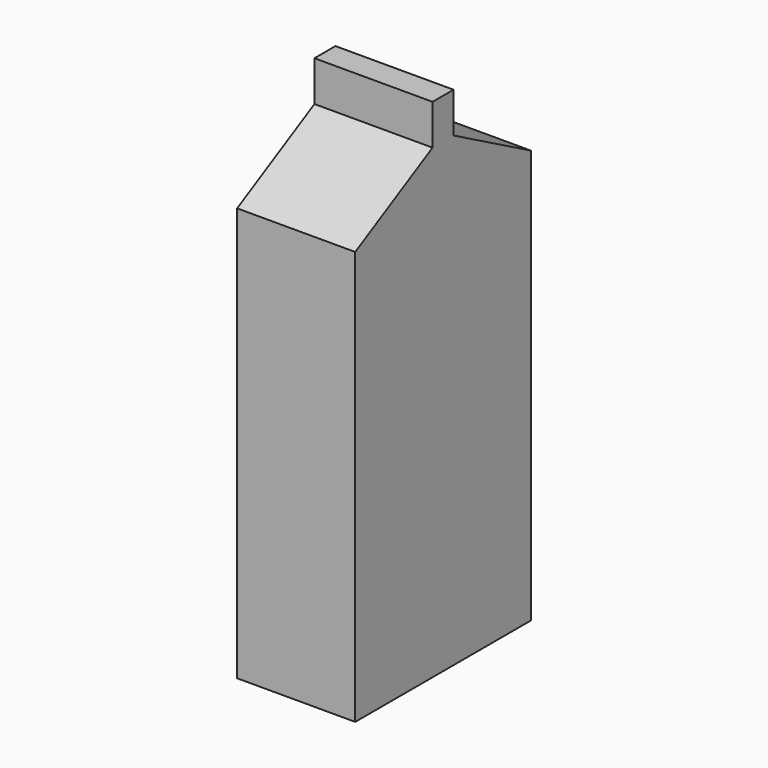
from build123d import *

# Parameters (mm, degrees)
F1_DEPTH = 25.4


with BuildPart() as f1:
    # F0 (on Right) → F1 (new body)
    with BuildSketch(Plane.YZ):
        Polygon((-23.609508, 44.494845), (-23.609508, -44.494845), (23.609508, -44.494845), (23.609508, 44.494845), (2.825069, 55.795118), (2.825069, 64.472117), (0, 64.472117), (-2.825069, 64.472117), (-2.825069, 55.795118), align=None)
    extrude(amount=F1_DEPTH)


solid = f1.part
